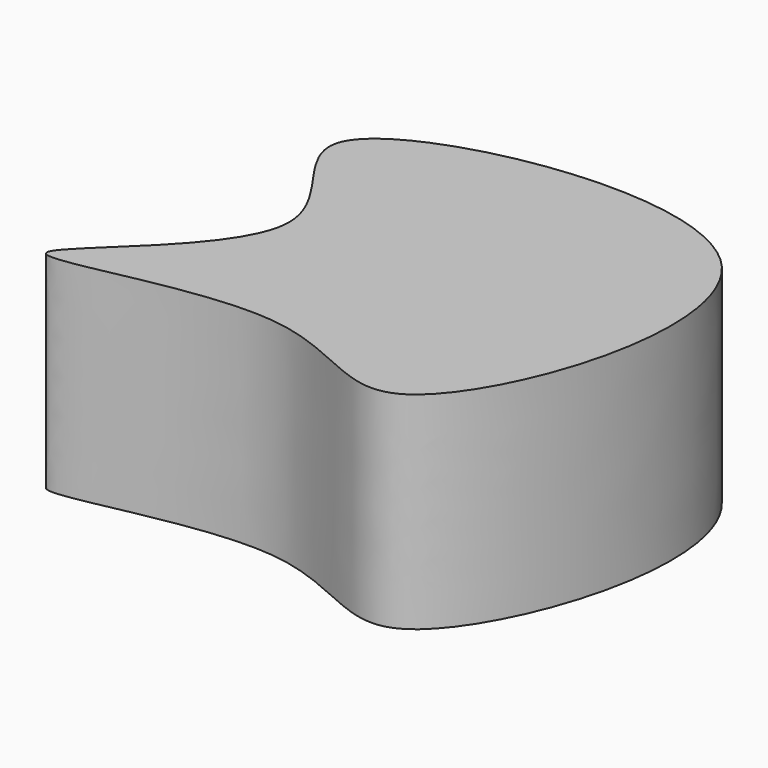
from build123d import *

# Parameters (mm, degrees)
F1_DEPTH = 25.4


with BuildPart() as f1:
    # F0 (on Top) → F1 (new body)
    with BuildSketch(Plane.XY):
        with BuildLine():
            add(Edge.make_bspline(
                [(-34.8644629121, -4.6070930548), (-35.0399323271, -2.611863267), (-9.5166080459, 14.5269384584), (-43.5315496108, 34.6569282674), (35.9116914828, 50.5493136382), (12.2346017087, -18.760426683), (-5.7531945274, 4.158095685), (-34.6796690887, -6.7083489407), (-34.8644629121, -4.6070930548)],
                knots=[0, 0, 0, 0, 0.1528129561, 0.287151083, 0.4969006433, 0.6985742586, 0.839066595, 1, 1, 1, 1], degree=3))
        make_face()
        with BuildLine():
            add(Edge.make_bspline(
                [(-34.8644629121, -4.6070930548), (-35.0399323271, -2.611863267), (-9.5166080459, 14.5269384584), (-43.5315496108, 34.6569282674), (35.9116914828, 50.5493136382), (12.2346017087, -18.760426683), (-5.7531945274, 4.158095685), (-34.6796690887, -6.7083489407), (-34.8644629121, -4.6070930548)],
                knots=[0, 0, 0, 0, 0.1528129561, 0.287151083, 0.4969006433, 0.6985742586, 0.839066595, 1, 1, 1, 1], degree=3))
        make_face()
    extrude(amount=F1_DEPTH)


solid = f1.part
